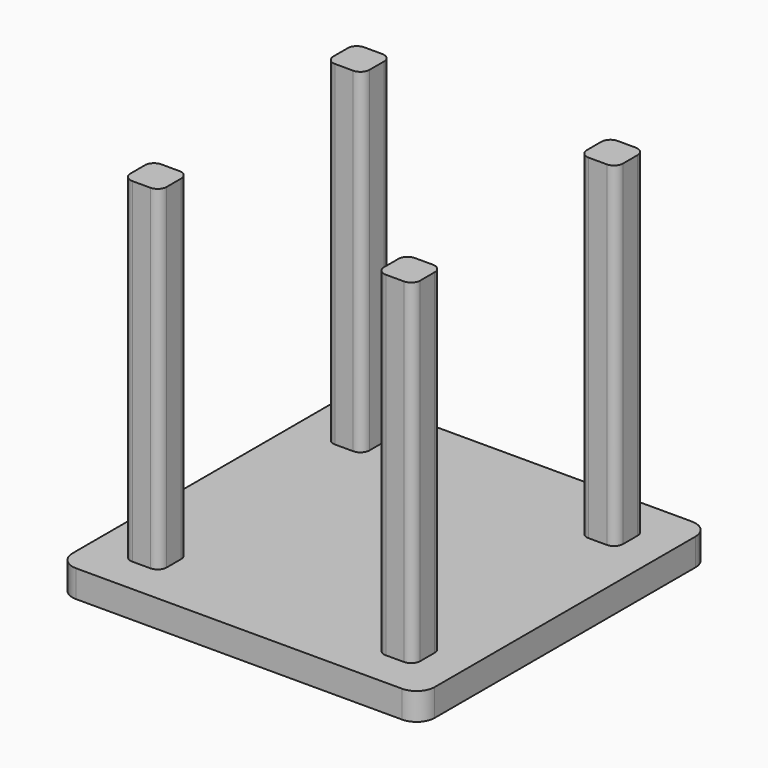
from build123d import *

# Parameters (mm, degrees)
F1_DEPTH = 30
F3_DEPTH = 370


with BuildPart() as f1:
    # F0 (on Top) → F1 (new body)
    with BuildSketch(Plane.XY):
        with BuildLine():
            Line((157.539008, 220.72852), (-202.460992, 220.72852))
            ThreePointArc((-202.460992, 220.72852), (-216.603128, 214.870655), (-222.460992, 200.72852))
            Line((-222.460992, 200.72852), (-222.460992, -159.27148))
            ThreePointArc((-222.460992, -159.27148), (-216.603128, -173.413616), (-202.460992, -179.27148))
            Line((-202.460992, -179.27148), (157.539008, -179.27148))
            ThreePointArc((157.539008, -179.27148), (171.681143, -173.413616), (177.539008, -159.27148))
            Line((177.539008, -159.27148), (177.539008, 200.72852))
            ThreePointArc((177.539008, 200.72852), (171.681143, 214.870655), (157.539008, 220.72852))
        make_face()
    extrude(amount=F1_DEPTH)

    # F2 (on face) → F3 (join)
    with BuildSketch(Plane.XY.offset(30)):
        with BuildLine():
            Line((-152.460992, 180.72852), (-172.460992, 180.72852))
            ThreePointArc((-172.460992, 180.72852), (-179.53206, 177.799588), (-182.460992, 170.72852))
            Line((-182.460992, 170.72852), (-182.460992, 150.72852))
            ThreePointArc((-182.460992, 150.72852), (-179.53206, 143.657452), (-172.460992, 140.72852))
            Line((-172.460992, 140.72852), (-152.460992, 140.72852))
            ThreePointArc((-152.460992, 140.72852), (-145.389924, 143.657452), (-142.460992, 150.72852))
            Line((-142.460992, 150.72852), (-142.460992, 170.72852))
            ThreePointArc((-142.460992, 170.72852), (-145.389924, 177.799588), (-152.460992, 180.72852))
        make_face()
        with BuildLine():
            Line((127.539008, 180.72852), (107.539008, 180.72852))
            ThreePointArc((107.539008, 180.72852), (100.46794, 177.799588), (97.539008, 170.72852))
            Line((97.539008, 170.72852), (97.539008, 150.72852))
            ThreePointArc((97.539008, 150.72852), (100.46794, 143.657452), (107.539008, 140.72852))
            Line((107.539008, 140.72852), (127.539008, 140.72852))
            ThreePointArc((127.539008, 140.72852), (134.610076, 143.657452), (137.539008, 150.72852))
            Line((137.539008, 150.72852), (137.539008, 170.72852))
            ThreePointArc((137.539008, 170.72852), (134.610076, 177.799588), (127.539008, 180.72852))
        make_face()
        with BuildLine():
            Line((127.539008, -99.27148), (107.539008, -99.27148))
            ThreePointArc((107.539008, -99.27148), (100.46794, -102.200412), (97.539008, -109.27148))
            Line((97.539008, -109.27148), (97.539008, -129.27148))
            ThreePointArc((97.539008, -129.27148), (100.46794, -136.342548), (107.539008, -139.27148))
            Line((107.539008, -139.27148), (127.539008, -139.27148))
            ThreePointArc((127.539008, -139.27148), (134.610076, -136.342548), (137.539008, -129.27148))
            Line((137.539008, -129.27148), (137.539008, -109.27148))
            ThreePointArc((137.539008, -109.27148), (134.610076, -102.200412), (127.539008, -99.27148))
        make_face()
        with BuildLine():
            Line((-152.460992, -99.27148), (-172.460992, -99.27148))
            ThreePointArc((-172.460992, -99.27148), (-179.53206, -102.200412), (-182.460992, -109.27148))
            Line((-182.460992, -109.27148), (-182.460992, -129.27148))
            ThreePointArc((-182.460992, -129.27148), (-179.53206, -136.342548), (-172.460992, -139.27148))
            Line((-172.460992, -139.27148), (-152.460992, -139.27148))
            ThreePointArc((-152.460992, -139.27148), (-145.389924, -136.342548), (-142.460992, -129.27148))
            Line((-142.460992, -129.27148), (-142.460992, -109.27148))
            ThreePointArc((-142.460992, -109.27148), (-145.389924, -102.200412), (-152.460992, -99.27148))
        make_face()
    extrude(amount=F3_DEPTH)


solid = f1.part
